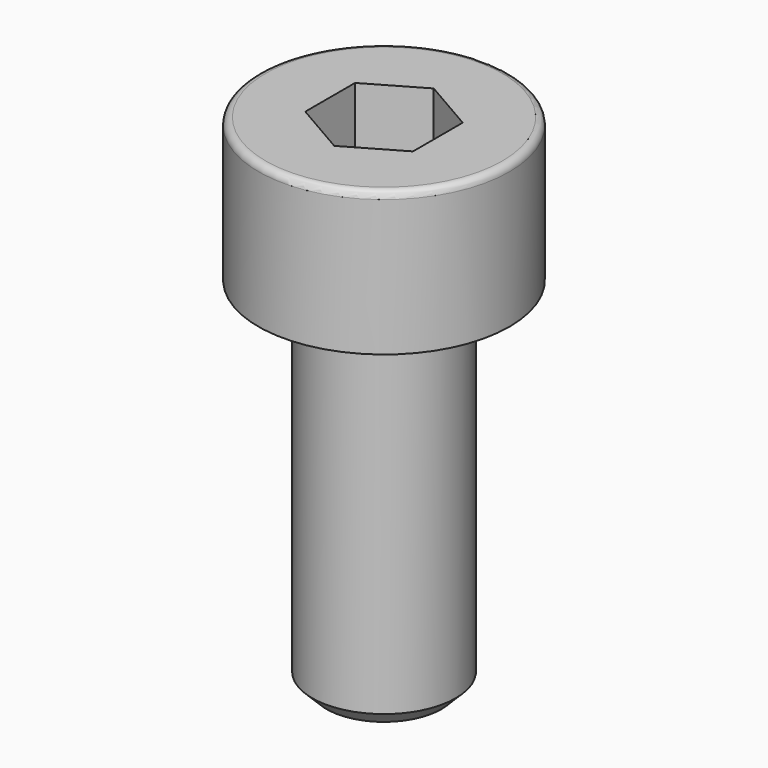
from build123d import *

# Parameters (mm, degrees)
CHAMFER_SIZE = 0.4
FILLET_R     = 0.2
POCKET_DEPTH = 2


with BuildPart() as part:
    # Sketch → Revolution (revolve)
    with BuildSketch(Plane.XZ):
        Polygon((2, 0), (2, 10), (3.5, 10), (3.5, 14), (0, 14), (0, 0), align=None)
    revolve(axis=Axis((0, 0, 0), (0, 0, 1)))

    # Chamfer
    chamfer_edges = [part.edges().sort_by_distance(p)[0] for p in [
        (-2, 0, 0),
    ]]
    chamfer(chamfer_edges, length=CHAMFER_SIZE)

    # Fillet
    fillet_edges = [part.edges().sort_by_distance(p)[0] for p in [
        (-3.5, 0, 14),
    ]]
    fillet(fillet_edges, radius=FILLET_R)

    # Sketch001 (on Face6 of Chamfer) → Pocket (cut)
    with BuildSketch(Plane(origin=(0, 0, 14), x_dir=(-1, 0, 0), z_dir=(0, 0, 1))):
        Polygon((1.5, 0.866025), (0, 1.732051), (-1.5, 0.866025), (-1.5, -0.866025), (0, -1.732051), (1.5, -0.866025), align=None)
    extrude(amount=-POCKET_DEPTH, mode=Mode.SUBTRACT)


solid = part.part
